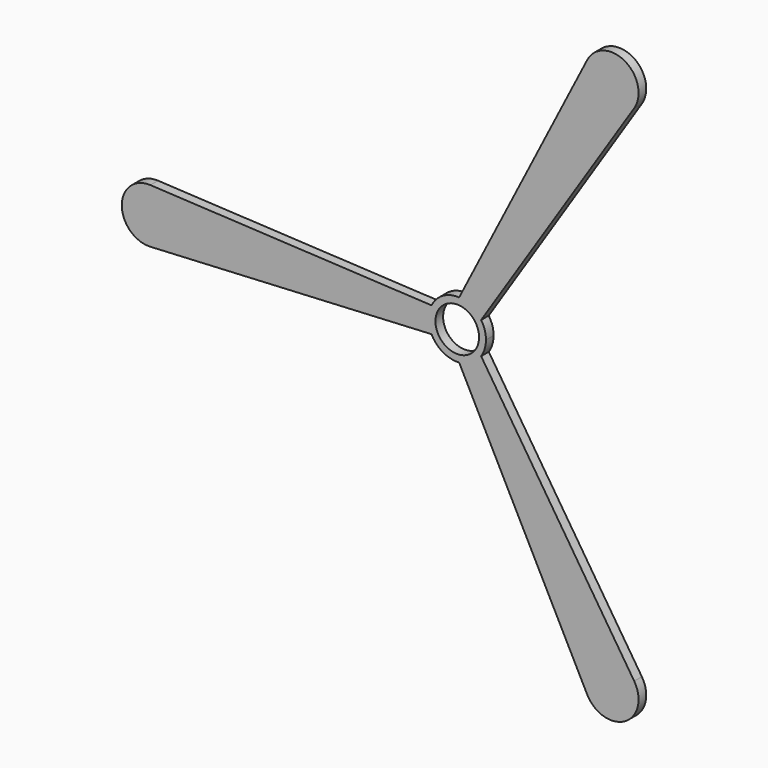
from build123d import *

# Parameters (mm, degrees)
F1_DEPTH = 1.27
F2_R     = 2.8956
F3_DEPTH = 25.4


with BuildPart() as f1:
    # F0 (on Front) → F1 (new body)
    with BuildSketch(Plane.XZ):
        with BuildLine():
            ThreePointArc((3.16807, -2.116466), (3.645987, -1.105837), (3.81, 0))
            ThreePointArc((3.81, 0), (3.645987, 1.105837), (3.16807, 2.116466))
            Line((3.16807, 2.116466), (23.487332, 33.47531))
            ThreePointArc((23.487332, 33.47531), (22.263501, 38.561514), (17.246803, 37.078281))
            Line((17.246803, 37.078281), (0.248878, 3.801863))
            ThreePointArc((0.248878, 3.801863), (-1.905, 3.299557), (-3.416949, 1.685396))
            Line((-3.416949, 1.685396), (-40.734135, 3.602971))
            ThreePointArc((-40.734135, 3.602971), (-44.527001, 0), (-40.734135, -3.602971))
            Line((-40.734135, -3.602971), (-3.416949, -1.685396))
            ThreePointArc((-3.416949, -1.685396), (-1.905, -3.299557), (0.248878, -3.801863))
            Line((0.248878, -3.801863), (17.246803, -37.078281))
            ThreePointArc((17.246803, -37.078281), (22.263501, -38.561514), (23.487332, -33.47531))
            Line((23.487332, -33.47531), (3.16807, -2.116466))
        make_face()
    extrude(amount=F1_DEPTH)

    # F2 (on face) → F3 (cut)
    with BuildSketch(Plane.XZ.offset(1.27)):
        Circle(F2_R)
    extrude(amount=-F3_DEPTH, mode=Mode.SUBTRACT)


solid = f1.part
